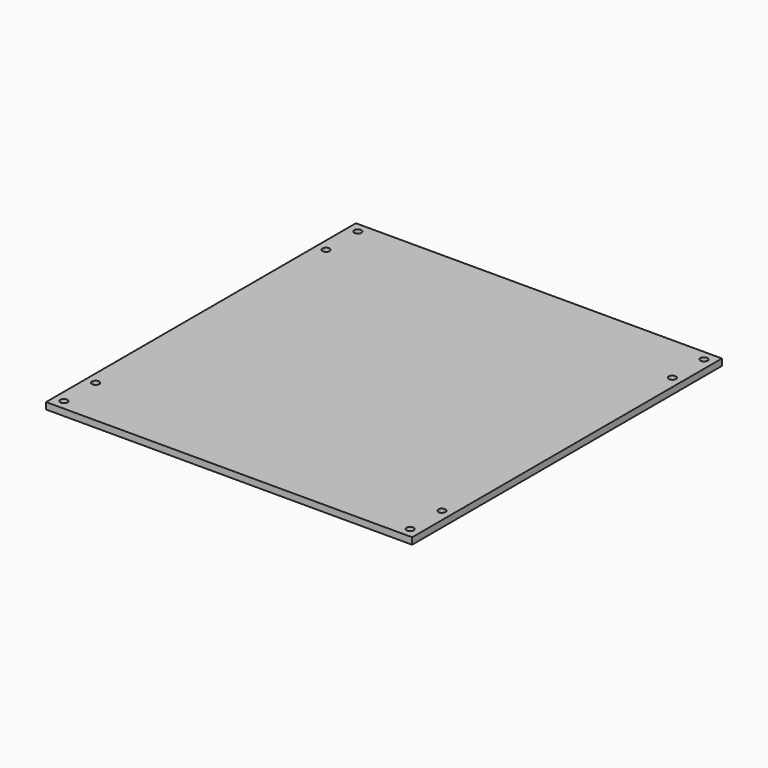
from build123d import *

# Parameters (mm, degrees)
F0_W     = 175.8696
F0_H     = 186.0296
F0_R     = 1.7272
F1_DEPTH = 3.175


with BuildPart() as f1:
    # F0 (on Top) → F1 (new body)
    with BuildSketch(Plane.XY):
        Rectangle(F0_W, F0_H)
        with Locations((-83.1723, -88.2523)):
            Circle(F0_R, mode=Mode.SUBTRACT)
        with Locations((-83.1723, -69.2023)):
            Circle(F0_R, mode=Mode.SUBTRACT)
        with Locations((83.1723, -88.2523)):
            Circle(F0_R, mode=Mode.SUBTRACT)
        with Locations((83.1723, -69.2023)):
            Circle(F0_R, mode=Mode.SUBTRACT)
        with Locations((-83.1723, 69.2023)):
            Circle(F0_R, mode=Mode.SUBTRACT)
        with Locations((-83.1723, 88.2523)):
            Circle(F0_R, mode=Mode.SUBTRACT)
        with Locations((83.1723, 69.2023)):
            Circle(F0_R, mode=Mode.SUBTRACT)
        with Locations((83.1723, 88.2523)):
            Circle(F0_R, mode=Mode.SUBTRACT)
    extrude(amount=F1_DEPTH)


solid = f1.part
